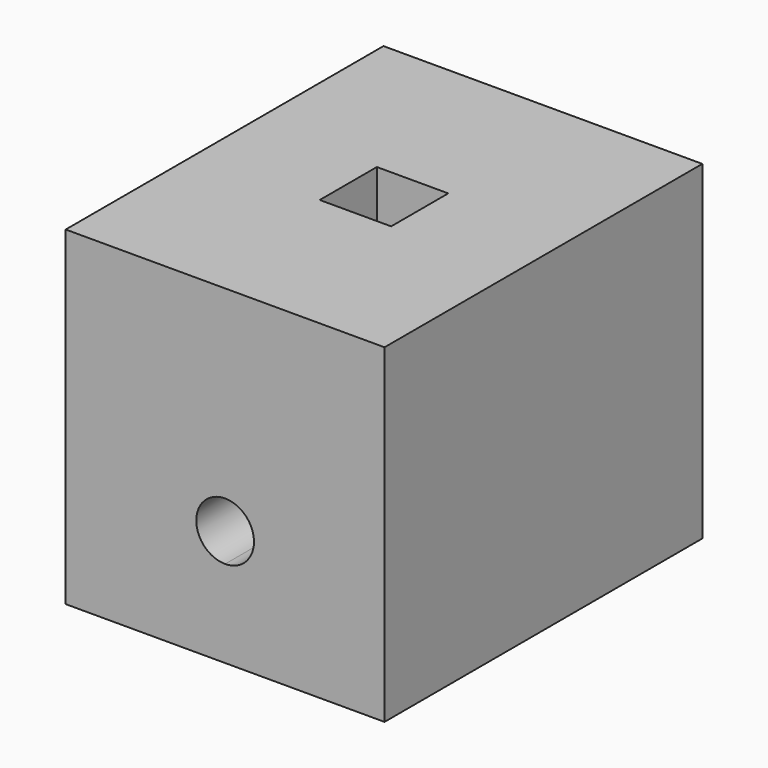
from build123d import *

# Parameters (mm, degrees)
F0_W     = 49.110298
F0_H     = 61.184842
F1_DEPTH = 50.8
F2_W     = 11
F2_H     = 11
F3_DEPTH = 45.72
F6_DEPTH = 50.8
F7_DEPTH = 50.8


with BuildPart() as f1:
    # F0 (on Top) → F1 (new body)
    with BuildSketch(Plane.XY):
        Rectangle(F0_W, F0_H)
    extrude(amount=F1_DEPTH)

    # F2 (on face) → F3 (cut)
    with BuildSketch(Plane.XY.offset(50.8)):
        Rectangle(F2_W, F2_H)
    extrude(amount=-F3_DEPTH, mode=Mode.SUBTRACT)

    # F4 (on Front) → F6 (cut)
    with BuildSketch(Plane.XZ):
        Polygon((-2.50393, 23.495), (-2.50393, 14.605), (0, 14.605), (2.50393, 14.605), (2.50393, 23.495), align=None)
    extrude(amount=-F6_DEPTH, mode=Mode.SUBTRACT)

    # F5 (on face) → F7 (cut)
    with BuildSketch(Plane.XZ.offset(30.592421)):
        with BuildLine():
            ThreePointArc((4.445, 17.878173), (-3.14309, 21.021263), (0, 13.433173))
            ThreePointArc((0, 13.433173), (3.14309, 14.735084), (4.445, 17.878173))
        make_face()
    extrude(amount=-F7_DEPTH, mode=Mode.SUBTRACT)


solid = f1.part
